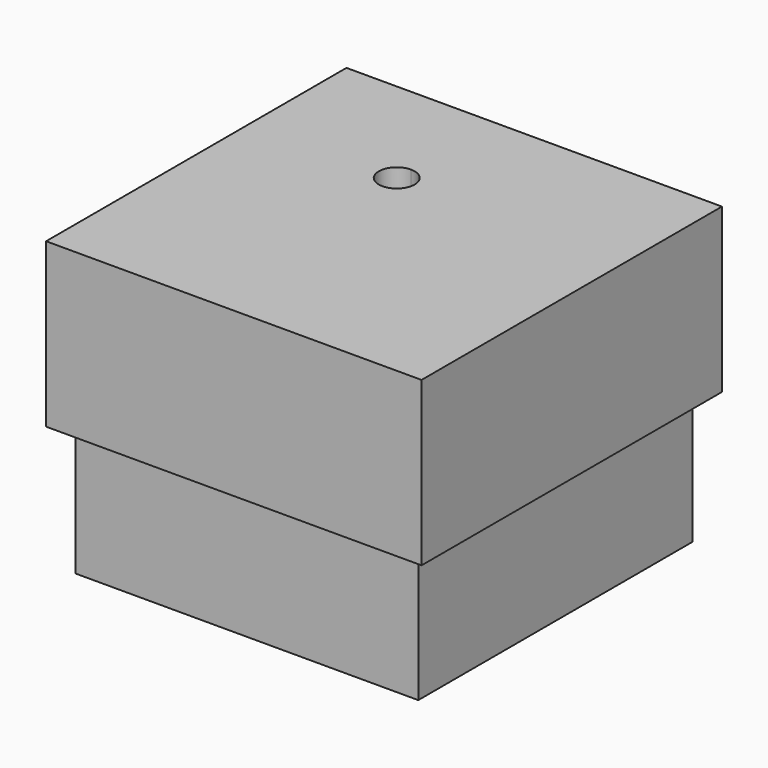
from build123d import *

# Parameters (mm, degrees)
F0_W     = 52.5
F0_H     = 52.5
F1_DEPTH = 30
F2_T     = -2.5
F3_W     = 57.5
F3_H     = 57.5
F3_W_2   = 54
F3_H_2   = 54
F4_DEPTH = 15
F5_DEPTH = 10


with BuildPart() as f1:
    # F0 (on Top) → F1 (new body)
    with BuildSketch(Plane.XY):
        with Locations((26.25, 26.25)):
            Rectangle(F0_W, F0_H)
    extrude(amount=F1_DEPTH)

    # F2
    f2_openings = [f1.faces().sort_by_distance(p)[0] for p in [
        (26.25, 26.25, 30),
    ]]
    offset(amount=F2_T, openings=f2_openings)


with BuildPart() as f4:
    # F3 (on face) → F4 (new body)
    with BuildSketch(Plane.XY.offset(30)):
        with BuildLine():
            ThreePointArc((22.75, 36.5), (21.944544, 38.444544), (20, 39.25))
            ThreePointArc((20, 39.25), (18.055456, 34.555456), (22.75, 36.5))
        make_face()
        Polygon((20, 50), (2.5, 50), (2.5, 2.5), (50, 2.5), (50, 50), align=None)
        with BuildLine():
            ThreePointArc((22.75, 36.5), (18.055456, 34.555456), (20, 39.25))
            ThreePointArc((20, 39.25), (21.944544, 38.444544), (22.75, 36.5))
        make_face(mode=Mode.SUBTRACT)
        with Locations((26.25, 26.25)):
            Rectangle(F3_W, F3_H)
        with Locations((26.25, 26.25)):
            Rectangle(F3_W_2, F3_H_2, mode=Mode.SUBTRACT)
        with Locations((26.25, 26.25)):
            Rectangle(F3_W_2, F3_H_2)
        Polygon((2.5, 2.5), (2.5, 50), (20, 50), (50, 50), (50, 2.5), align=None, mode=Mode.SUBTRACT)
        with Locations((26.25, 26.25)):
            Rectangle(F3_W_2, F3_H_2)
        Polygon((2.5, 2.5), (2.5, 50), (20, 50), (50, 50), (50, 2.5), align=None, mode=Mode.SUBTRACT)
        Polygon((20, 50), (2.5, 50), (2.5, 2.5), (50, 2.5), (50, 50), align=None)
        with BuildLine():
            ThreePointArc((22.75, 36.5), (18.055456, 34.555456), (20, 39.25))
            ThreePointArc((20, 39.25), (21.944544, 38.444544), (22.75, 36.5))
        make_face(mode=Mode.SUBTRACT)
    extrude(amount=F4_DEPTH)

    # F3 (on face) → F5 (join)
    with BuildSketch(Plane.XY.offset(30)):
        with Locations((26.25, 26.25)):
            Rectangle(F3_W, F3_H)
        with Locations((26.25, 26.25)):
            Rectangle(F3_W_2, F3_H_2, mode=Mode.SUBTRACT)
    extrude(amount=-F5_DEPTH)


solid = Compound([f1.part, f4.part])
